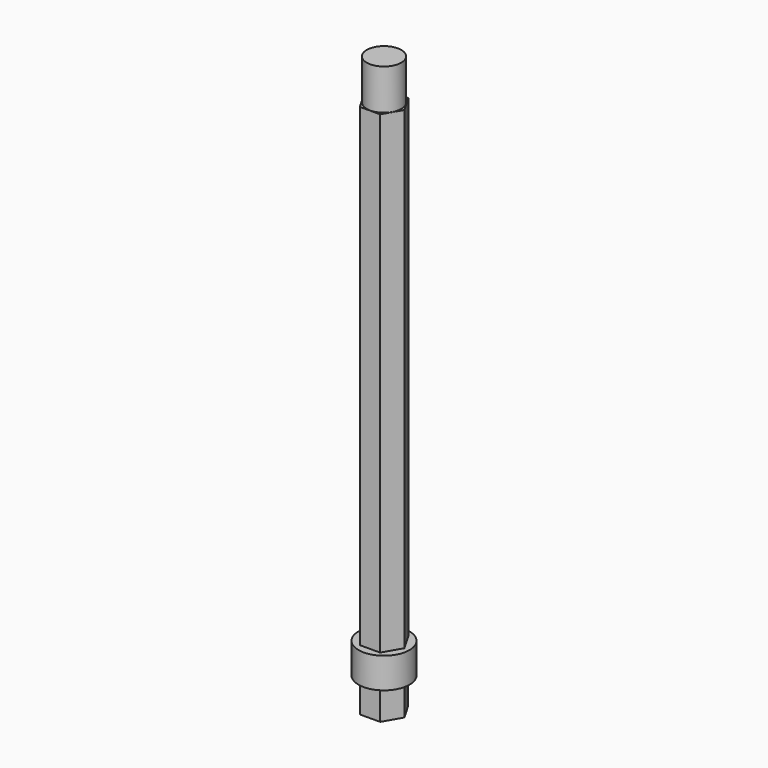
from build123d import *

# Parameters (mm, degrees)
F1_DEPTH = 233
F2_R     = 8.5
F3_DEPTH = 20
F4_R     = 12.5
F5_DEPTH = 15
F7_DEPTH = 15


with BuildPart() as f1:
    # F0 (on Top) → F1 (new body)
    with BuildSketch(Plane.XY):
        Polygon((5, 8.660254), (-5, 8.660254), (-10, 0), (-5, -8.660254), (5, -8.660254), (10, 0), align=None)
    extrude(amount=F1_DEPTH)

    # F2 (on face) → F3 (join)
    with BuildSketch(Plane.XY.offset(233)):
        Circle(F2_R)
    extrude(amount=F3_DEPTH)

    # F4 (on face) → F5 (join)
    with BuildSketch(Plane(origin=(0, 0, 0), x_dir=(1, 0, 0), z_dir=(0, 0, -1))):
        Circle(F4_R)
        Polygon((5, -8.660254), (-5, -8.660254), (-10, 0), (-5, 8.660254), (5, 8.660254), (10, 0), align=None, mode=Mode.SUBTRACT)
        Polygon((-10, 0), (-5, -8.660254), (5, -8.660254), (10, 0), (5, 8.660254), (-5, 8.660254), align=None)
    extrude(amount=F5_DEPTH)

    # F6 (on face) → F7 (join)
    with BuildSketch(Plane(origin=(0, 0, -15), x_dir=(1, 0, 0), z_dir=(0, 0, -1))):
        Polygon((4.953786, -8.686772), (9.999858, -0.053281), (5.046072, 8.633491), (-4.953786, 8.686772), (-9.999858, 0.053281), (-5.046072, -8.633491), align=None)
    extrude(amount=F7_DEPTH)


solid = f1.part
